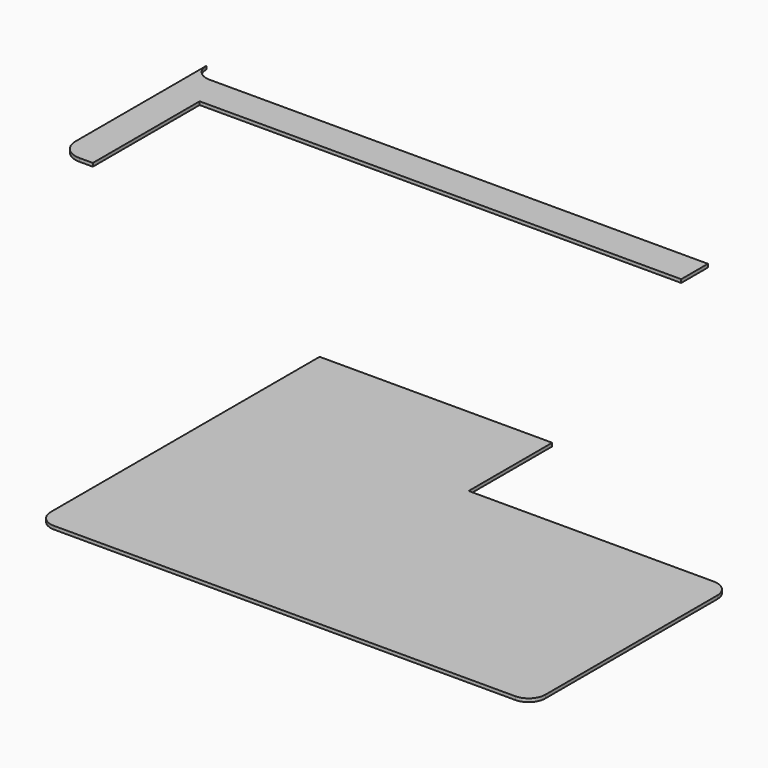
from build123d import *

# Parameters (mm, degrees)
F0_W     = 10
F0_H     = 40
F1_DEPTH = 1
F2_DEPTH = 1
F3_R     = 5
F4_R     = 6


with BuildPart() as f1:
    # F0 (on Top) → F1 (new body)
    with BuildSketch(Plane.XY):
        Polygon((-149.3, 10), (-154.3, 10), (-154.3, 0), (-144.3, 0), (0, 0), (0, 10), align=None)
        with BuildLine():
            Line((-154.3, 15), (-154.3, 10))
            Line((-154.3, 10), (-149.3, 10))
            ThreePointArc((-149.3, 10), (-152.835534, 11.464466), (-154.3, 15))
        make_face()
        with Locations((-149.3, -20)):
            Rectangle(F0_W, F0_H)
    extrude(amount=F1_DEPTH)

    # F4
    f4_edges = [f1.edges().sort_by_distance(p)[0] for p in [
        (-154.3, -40, 0.5),
    ]]
    fillet(f4_edges, radius=F4_R)


with BuildPart() as f2:
    # F0 (on Top) → F2 (new body)
    with BuildSketch(Plane.XY):
        Polygon((106.69418, -114.861763), (28.19418, -114.861763), (28.19418, -83.561763), (-41.50582, -83.561763), (-41.50582, -189.261763), (106.69418, -189.261763), align=None)
    extrude(amount=F2_DEPTH)

    # F3
    f3_edges = [f2.edges().sort_by_distance(p)[0] for p in [
        (-41.50582, -189.261763, 0.5),
        (106.69418, -189.261763, 0.5),
        (106.69418, -114.861763, 0.5),
    ]]
    fillet(f3_edges, radius=F3_R)


solid = Compound([f1.part, f2.part])
